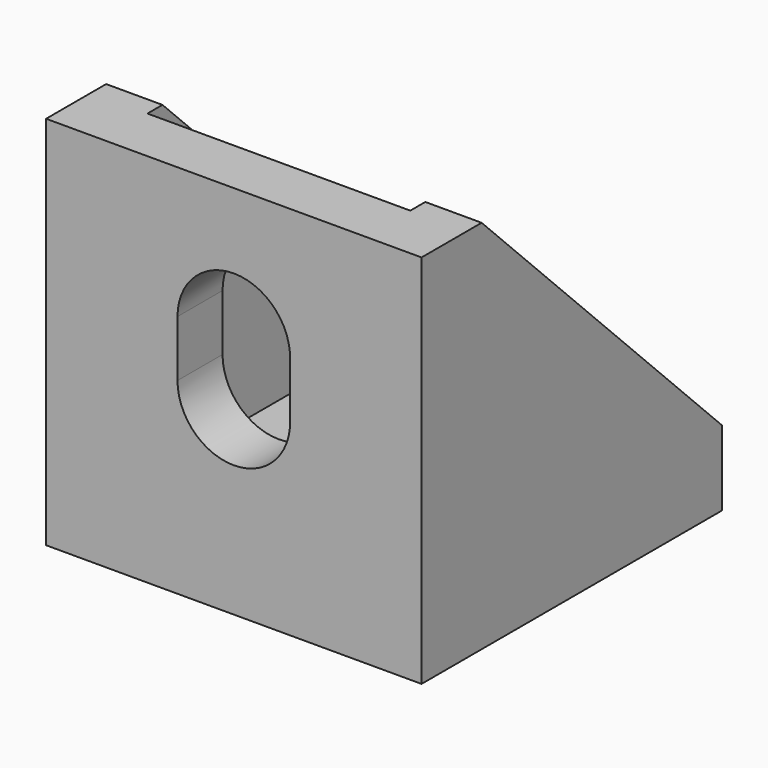
from build123d import *

# Parameters (mm, degrees)
PAD102_DEPTH            = 20
THICKNESS001_T          = -3
POCKET077_DEPTH         = 5
POCKET078_DEPTH         = 5
BODY126_PLACEMENT_ANGLE = 90


with BuildPart() as part:
    # Sketch211 (on XZ_Plane1033 of Origin1405) → Pad102 (new body)
    with BuildSketch(Plane.XZ):
        Polygon((0, 0), (0, 20), (4, 20), (20, 4), (20, 0), align=None)
    extrude(amount=PAD102_DEPTH)

    # Thickness001
    thickness001_openings = [part.faces().sort_by_distance(p)[0] for p in [
        (2, -10, 20),
        (12, -10, 12),
        (20, -10, 2),
    ]]
    offset(amount=THICKNESS001_T, openings=thickness001_openings)

    # Sketch212 (on Face11 of Thickness001) → Pocket077 (cut)
    with BuildSketch(Plane.YZ.offset(3)):
        with BuildLine():
            ThreePointArc((-7, 13), (-10, 16), (-13, 13))
            Line((-13, 13), (-13, 10))
            ThreePointArc((-13, 10), (-10, 7), (-7, 10))
            Line((-7, 13), (-7, 10))
        make_face()
    extrude(amount=-POCKET077_DEPTH, mode=Mode.SUBTRACT)

    # Sketch213 (on Face16 of Pocket077) → Pocket078 (cut)
    with BuildSketch(Plane.XY.offset(3)):
        with BuildLine():
            ThreePointArc((10, -7), (7, -10), (10, -13))
            Line((10, -13), (13, -13))
            ThreePointArc((13, -13), (16, -10), (13, -7))
            Line((10, -7), (13, -7))
        make_face()
    extrude(amount=-POCKET078_DEPTH, mode=Mode.SUBTRACT)


with BuildPart() as part_1:
    # Body126 placement: moved
    add(part.part.moved(Location((210, 270, -33))).rotate(Axis((210, 270, -33), (0, 0, 1)), BODY126_PLACEMENT_ANGLE))


solid = part_1.part
